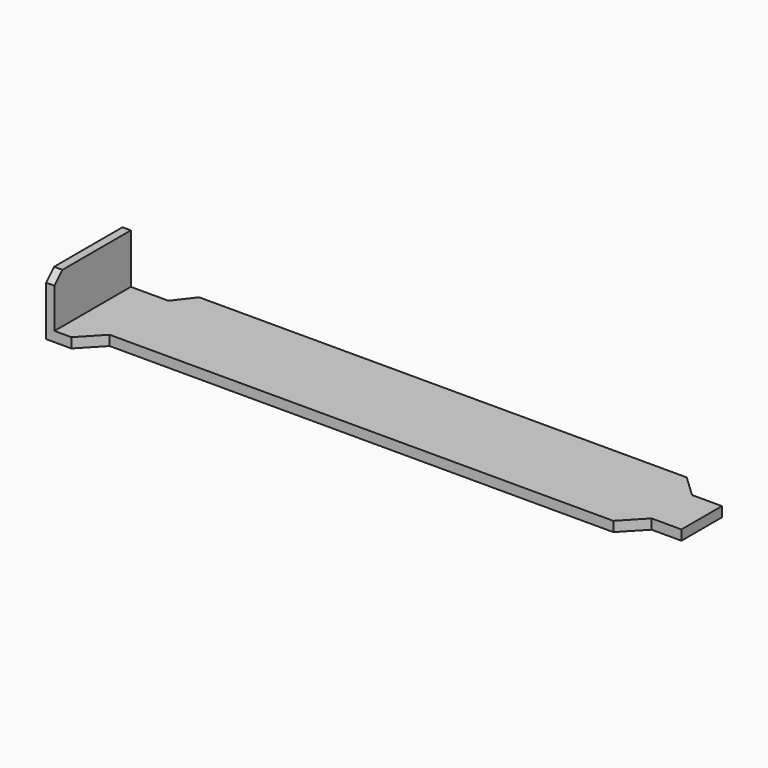
from build123d import *

# Parameters (mm, degrees)
F0_W     = 1.681574
F0_H     = 19.19315
F1_DEPTH = 12
F2_DEPTH = 2
F3_SIZE  = 2


with BuildPart() as f1:
    # F0 (on Top) → F1 (new body)
    with BuildSketch(Plane.XY):
        with Locations((-54.7731, -4.393613)):
            Rectangle(F0_W, F0_H)
    extrude(amount=F1_DEPTH)

    # F0 (on Top) → F2 (join)
    with BuildSketch(Plane.XY):
        Polygon((54.688916, 9.13409), (-43.35802, 9.13409), (-46.364177, 5.202962), (-53.932313, 5.202962), (-53.932313, -13.990188), (-50.526548, -13.990188), (-46.364177, -9.596575), (54.920163, -9.596575), (59.082527, -5.202962), (65.094844, -5.202962), (65.094844, 4.97172), (59.082527, 4.97172), align=None)
        with Locations((-54.7731, -4.393613)):
            Rectangle(F0_W, F0_H)
    extrude(amount=F2_DEPTH)

    # F3
    f3_edges = [f1.edges().sort_by_distance(p)[0] for p in [
        (-54.7731, -13.990188, 12),
    ]]
    chamfer(f3_edges, length=F3_SIZE)


solid = f1.part
